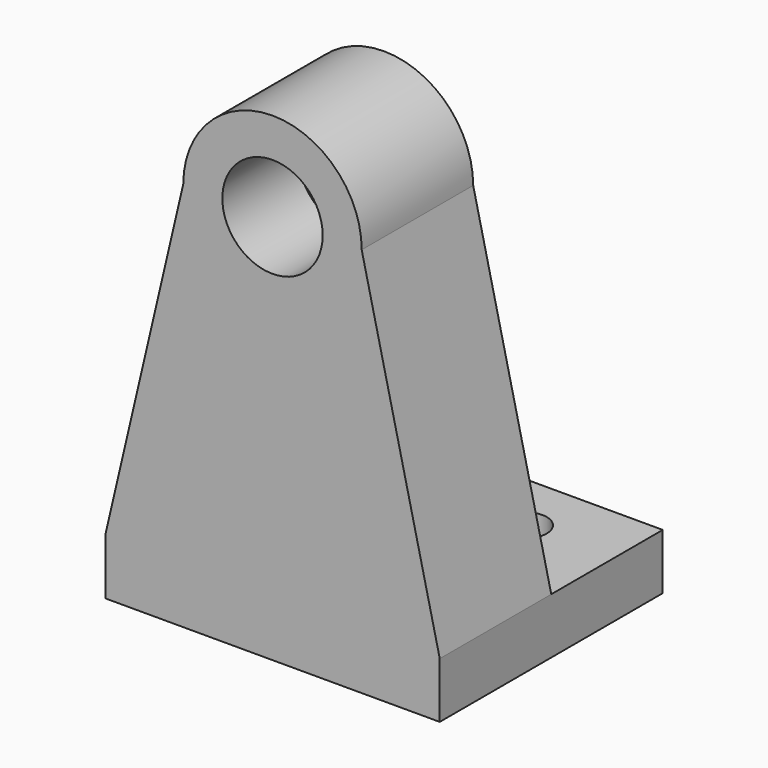
from build123d import *

# Parameters (mm, degrees)
F0_R     = 11
F0_W     = 60
F0_H     = 10
F1_DEPTH = 25
F2_DEPTH = 25
F3_START = 8
F0_R_2   = 9
F3_DEPTH = 17
F4_R     = 4
F5_DEPTH = 25


with BuildPart() as f1:
    # F0 (on Front) → F1 (new body)
    with BuildSketch(Plane.XZ):
        with BuildLine():
            ThreePointArc((16, 0), (0, 16), (-16, 0))
            Line((-16, 0), (-30, -60))
            Line((-30, -60), (30, -60))
            Line((30, -60), (16, 0))
        make_face()
        Circle(F0_R, mode=Mode.SUBTRACT)
        with Locations((0, -65)):
            Rectangle(F0_W, F0_H)
    extrude(amount=F1_DEPTH)

    # F0 (on Front) → F2 (join)
    with BuildSketch(Plane.XZ):
        with Locations((0, -65)):
            Rectangle(F0_W, F0_H)
    extrude(amount=-F2_DEPTH)

    # F0 (on Front) → F3 (join)
    with BuildSketch(Plane.XZ.offset(F3_START)):
        Circle(F0_R)
        Circle(F0_R_2, mode=Mode.SUBTRACT)
    extrude(amount=F3_DEPTH)

    # F4 (on face) → F5 (cut)
    with BuildSketch(Plane.XY.offset(-60)):
        with Locations((-14, 14)):
            Circle(F4_R)
        with Locations((14, 14)):
            Circle(F4_R)
    extrude(amount=-F5_DEPTH, mode=Mode.SUBTRACT)


solid = f1.part
